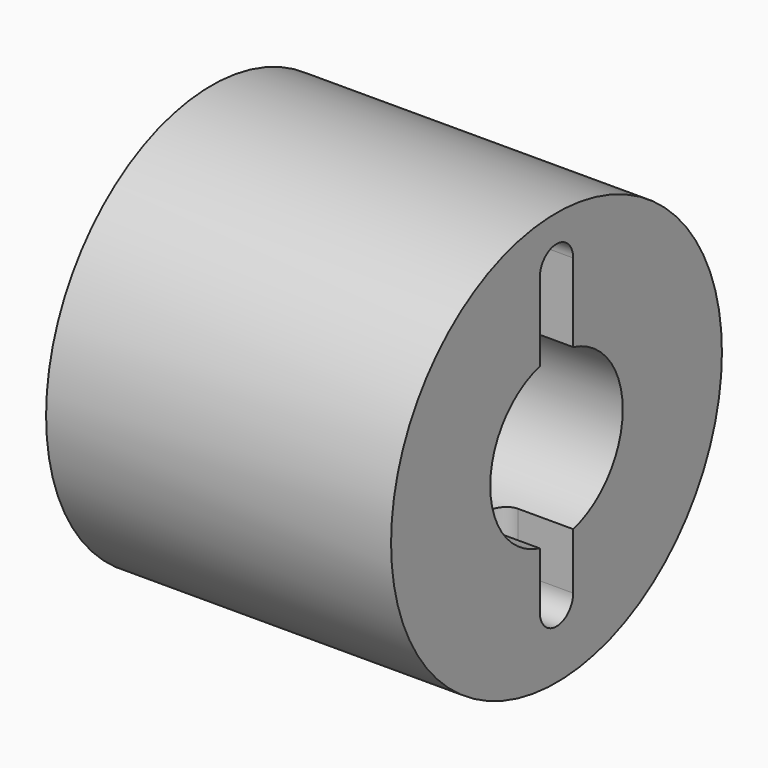
from build123d import *

# Parameters (mm, degrees)
F0_R     = 14.985
F0_R_2   = 6
F1_DEPTH = 25
F3_DEPTH = 5.5
F4_R     = 1.5


with BuildPart() as f1:
    # F0 (on Right) → F1 (new body)
    with BuildSketch(Plane.YZ):
        Circle(F0_R)
        Circle(F0_R_2, mode=Mode.SUBTRACT)
    extrude(amount=-F1_DEPTH)

    # F2 (on Right) → F3 (cut)
    with BuildSketch(Plane.YZ):
        with BuildLine():
            ThreePointArc((1.51, 11.49), (0, 13), (-1.51, 11.49))
            Line((-1.51, 11.49), (-1.51, -9.89))
            ThreePointArc((-1.51, -9.89), (0, -11.4), (1.51, -9.89))
            Line((1.51, -9.89), (1.51, 11.49))
        make_face()
    extrude(amount=-F3_DEPTH, mode=Mode.SUBTRACT)

    # F4
    f4_edges = [f1.edges().sort_by_distance(p)[0] for p in [
        (-5.5, 1.51, 8.648442),
        (-5.5, 1.51, -7.848442),
    ]]
    fillet(f4_edges, radius=F4_R)


solid = f1.part
